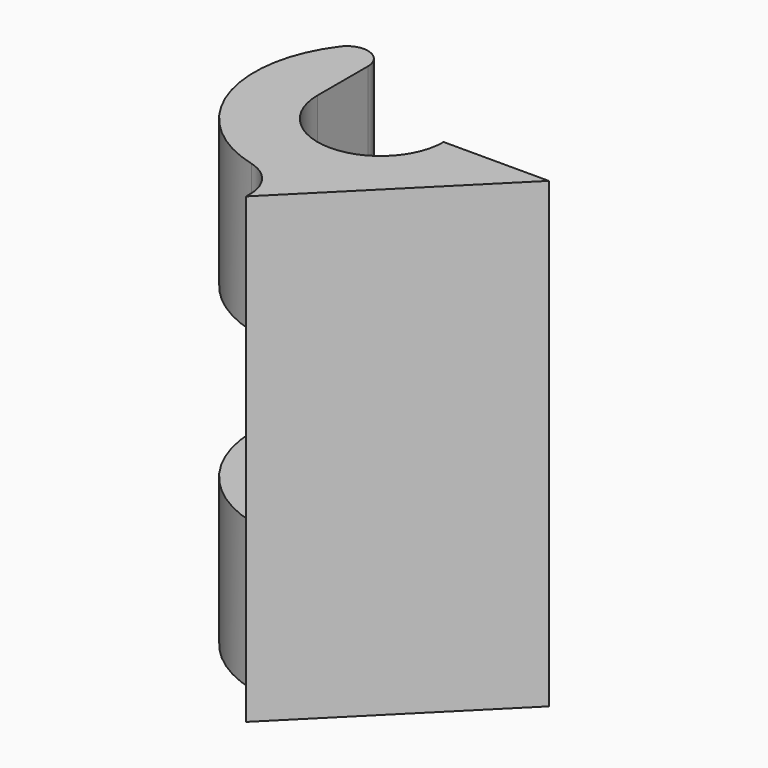
from build123d import *

# Parameters (mm, degrees)
PAD_DEPTH    = 11
POCKET_DEPTH = 4
FILLET_R     = 1
FILLET001_R  = 2


with BuildPart() as part:
    # Sketch → Pad (new body, symmetric)
    with BuildSketch(Plane.XY):
        with BuildLine():
            ThreePointArc((-3, 0), (0, -3), (3, 0))
            Line((3, 0), (8, 0))
            Line((8, 0), (0, -8))
            Line((0, -8), (0, -6))
            ThreePointArc((-3, 5.196152), (-5.795555, -1.552914), (0, -6))
            Line((-3, 5.196152), (-3, 0))
        make_face()
    extrude(amount=PAD_DEPTH, both=True)

    # Sketch001 → Pocket (cut, symmetric)
    with BuildSketch(Plane.XY):
        with BuildLine():
            ThreePointArc((0.45045, 7.486461), (-7.496614, 0.225327), (0, -7.5))
            Line((0, -2.5), (0, -7.5))
            ThreePointArc((0.45045, 2.459084), (-2.48975, 0.226152), (0, -2.5))
            Line((0.45045, 2.459084), (0.45045, 7.486461))
        make_face()
    extrude(amount=POCKET_DEPTH, both=True, mode=Mode.SUBTRACT)

    # Fillet
    fillet_edges = [part.edges().sort_by_distance(p)[0] for p in [
        (-3, 5.196152, 7.5),
        (-3, 5.196152, -7.5),
    ]]
    fillet(fillet_edges, radius=FILLET_R)

    # Fillet001
    fillet001_edges = [part.edges().sort_by_distance(p)[0] for p in [
        (0, -6, -7.5),
        (0, -6, 7.5),
    ]]
    fillet(fillet001_edges, radius=FILLET001_R)


solid = part.part
